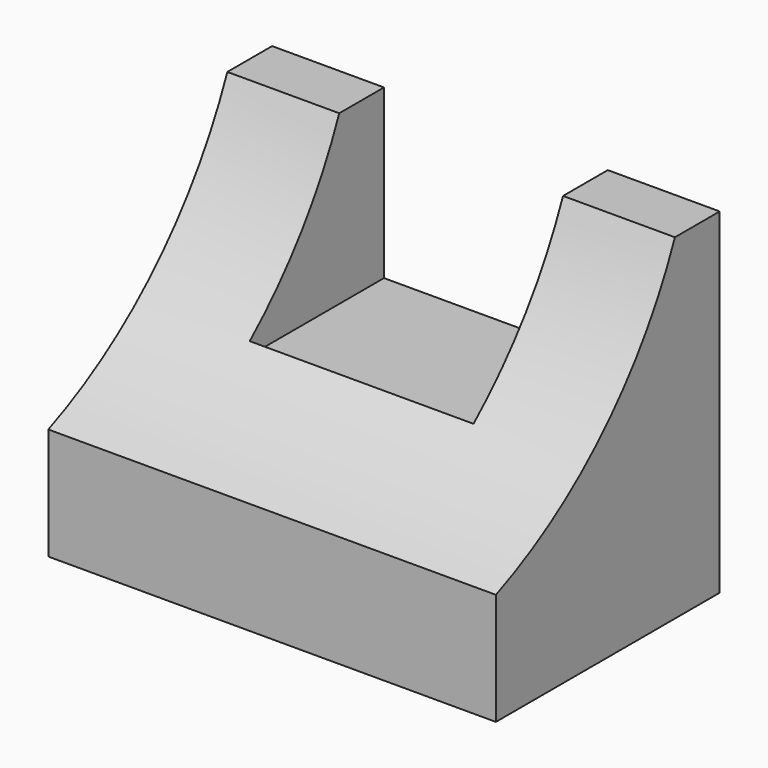
from build123d import *

# Parameters (mm, degrees)
F0_W     = 31.75
F0_H     = 38.1
F1_DEPTH = 50.8
F3_DEPTH = 50.8
F4_W     = 25.4
F4_H     = 19.05
F5_DEPTH = 19.05


with BuildPart() as f1:
    # F0 (on Right) → F1 (new body)
    with BuildSketch(Plane.YZ):
        with Locations((-10.51228, 19.05)):
            Rectangle(F0_W, F0_H)
    extrude(amount=-F1_DEPTH)

    # F2 (on face) → F3 (cut)
    with BuildSketch(Plane.YZ):
        with BuildLine():
            Line((-26.38728, 38.1), (-26.38728, 12.7))
            ThreePointArc((-26.38728, 12.7), (-11.141967, 22.854688), (-0.98728, 38.1))
            Line((-0.98728, 38.1), (-26.38728, 38.1))
        make_face()
    extrude(amount=-F3_DEPTH, mode=Mode.SUBTRACT)

    # F4 (on face) → F5 (cut)
    with BuildSketch(Plane(origin=(0, 5.36272, 0), x_dir=(-1, 0, 0), z_dir=(0, 1, 0))):
        with Locations((25.4, 28.575)):
            Rectangle(F4_W, F4_H)
    extrude(amount=-F5_DEPTH, mode=Mode.SUBTRACT)


solid = f1.part
